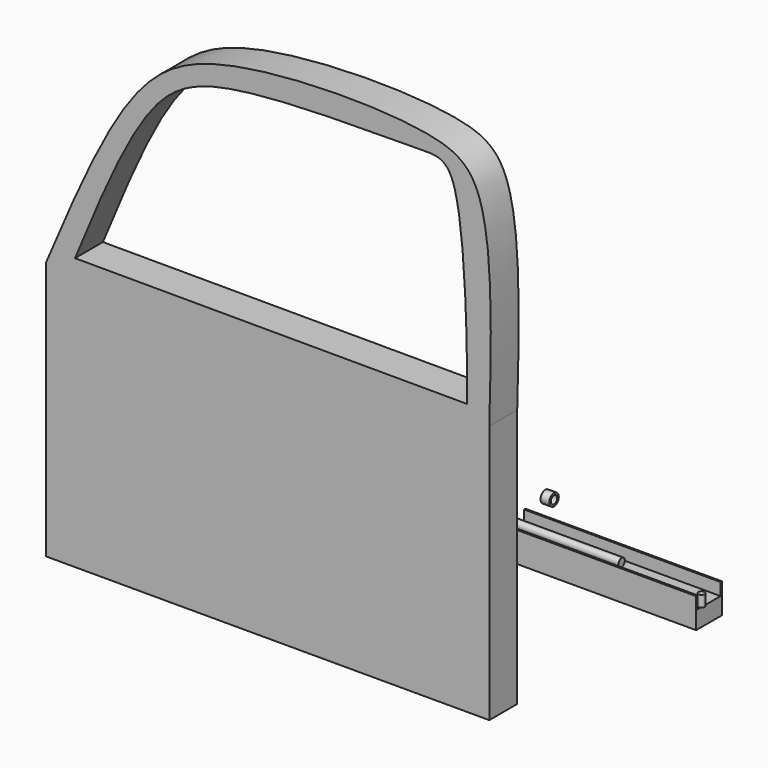
from build123d import *

# Parameters (mm, degrees)
F0_W      = 78.1136769801
F0_H      = 22.0055021346
F1_DEPTH  = 8
F2_DEPTH  = 3.5
F3_W      = 78.1136769801
F3_H      = 11.0027510673
F4_DEPTH  = 1
F6_DEPTH  = 12.5
F7_R      = 0.6740837688
F7_R_2    = 0.6794872763
F8_DEPTH  = 2
F9_R      = 1.1503813394
F9_R_2    = 1.1532026448
F10_DEPTH = 1
F15_R     = 0.9100184441
F16_DEPTH = 25
F18_DEPTH = 45
F19_W     = 0.7096510381
F19_H     = 2.5684013963
F15_R_2   = 1.3595382542
F21_DEPTH = 2


with BuildPart() as f1:
    # F0 (on Front) → F1 (new body)
    with BuildSketch(Plane.XZ):
        with BuildLine():
            Line((-72.9369357123, -81.3669546917), (28.6214776443, -81.3669546917))
            Line((28.6214776443, -81.3669546917), (28.6214776443, -22.0463353619))
            add(Edge.make_bspline(
                [(-72.9369357123, -22.0463353619), (-66.3079296953, -6.3903379982), (-54.8236810491, 20.7324864598), (-33.1368908634, 33.9886563081), (14.1885215953, 34.4693387216), (29.9138992328, 26.3054952003), (29.1285218253, -3.0768949366), (28.6214776443, -22.0463353619)],
                knots=[0, 0, 0, 0, 0.2327586614, 0.4032366747, 0.6349341911, 0.7643114096, 1, 1, 1, 1], degree=3))
            Line((-72.9369357123, -22.0463353619), (-72.9369357123, -81.3669546917))
        make_face()
        with Locations((-17.9867846891, -62.162226066)):
            Rectangle(F0_W, F0_H, mode=Mode.SUBTRACT)
        with BuildLine():
            Line((23.5529407965, -19.2304815576), (-66.3079296953, -19.0427604541))
            add(Edge.make_bspline(
                [(-66.3079296953, -19.0427604541), (-60.6025988038, -5.2091205775), (-50.8417035049, 18.4579923395), (-32.9418385651, 29.0509048337), (11.2998233245, 28.2534036027), (23.8422582571, 29.4620440208), (23.5609324216, -16.9963213799), (23.5529407965, -19.2304815576)],
                knots=[0, 0, 0, 0, 0.2292277789, 0.3921715308, 0.6301185848, 0.7440435368, 0.9842506716, 0.9842506716, 0.9842506716, 0.9842506716], degree=3))
        make_face(mode=Mode.SUBTRACT)
        with Locations((-17.9867846891, -62.162226066)):
            Rectangle(F0_W, F0_H)
    extrude(amount=F1_DEPTH)

    # F0 (on Front) → F2 (cut, symmetric)
    with BuildSketch(Plane.XZ):
        with Locations((-17.9867846891, -62.162226066)):
            Rectangle(F0_W, F0_H)
    extrude(amount=F2_DEPTH, both=True, mode=Mode.SUBTRACT)


with BuildPart() as f4:
    # F3 (on face) → F4 (new body)
    with BuildSketch(Plane(origin=(0, 0, 0), x_dir=(-1, 0, 0), z_dir=(0, 1, 0))):
        with Locations((17.9867846891, -67.6636015996)):
            Rectangle(F3_W, F3_H)
    extrude(amount=F4_DEPTH)


with BuildPart() as f6:
    # F5 (on Right) → F6 (new body, symmetric)
    with BuildSketch(Plane.YZ):
        Polygon((-1.0896978201, -60.7723593712), (-1.0896978201, -72.45323807), (-0.2179905568, -72.45323807), (-0.2179905568, -61.9055777788), (1.0241923155, -61.9055777788), (1.0241923155, -72.45323807), (2.0484484266, -72.45323807), (2.0484484266, -60.7723593712), align=None)
    extrude(amount=F6_DEPTH, both=True)

    # F7 (on face) → F8 (join)
    with BuildSketch(Plane(origin=(0, 2.0484484266, 0), x_dir=(-1, 0, 0), z_dir=(0, 1, 0))):
        with Locations((-10.6959426776, -67.096978426)):
            Circle(F7_R)
        with Locations((10.5811031535, -67.096978426)):
            Circle(F7_R_2)
    extrude(amount=F8_DEPTH)

    # F9 (on face) → F10 (join)
    with BuildSketch(Plane(origin=(0, 4.0484484266, 0), x_dir=(-1, 0, 0), z_dir=(0, 1, 0))):
        with Locations((-10.6959426776, -67.096978426)):
            Circle(F9_R)
        with Locations((10.6070199981, -67.0710653067)):
            Circle(F9_R_2)
    extrude(amount=F10_DEPTH)


with BuildPart() as f12:
    # F11 (on Right) → F12 (revolve)
    with BuildSketch(Plane.YZ):
        with BuildLine():
            Line((2.1344509079, -62.3869039118), (2.0657987334, -62.3869039118))
            Line((2.0657987334, -62.3869039118), (2.0657987334, -67.175835371))
            Line((2.0657987334, -67.175835371), (3.6893903743, -67.175835371))
            Line((3.6893903743, -67.175835371), (3.6893903743, -63.812112902))
            ThreePointArc((3.6893903743, -63.812112902), (3.0686592581, -62.9285025663), (2.1344509079, -62.3869039118))
        make_face()
    revolve(axis=Axis((0, 4.3976157904, -67.175835371), (0, 1, 0)))

    # F13 (on Right) → F14 (revolve)
    with BuildSketch(Plane.YZ):
        with BuildLine():
            Line((3.290206524, -67.100353539), (5.9968891046, -67.100353539))
            ThreePointArc((5.9968891046, -67.100353539), (4.6435478143, -65.7470122487), (3.290206524, -67.100353539))
        make_face()
    revolve(axis=Axis((0, 4.8515796661, -67.100353539), (0, 1, 0)))


with BuildPart() as f16:
    # F15 (on Right) → F16 (new body, symmetric)
    with BuildSketch(Plane.YZ):
        with Locations((34.4581520185, -67.963078618)):
            Circle(F15_R)
    extrude(amount=F16_DEPTH, both=True)


with BuildPart() as f18:
    # F17 (on Right) → F18 (new body)
    with BuildSketch(Plane.YZ):
        Polygon((31.1965886503, -66.7925700545), (30.7825282216, -66.7925700545), (30.7825282216, -73.6572667956), (38.17024827, -73.6572667956), (38.17024827, -66.7925700545), (37.7779789269, -66.7925700545), (37.7779789269, -69.6256235242), (31.1965886503, -69.6256235242), align=None)
    extrude(amount=F18_DEPTH)


with BuildPart() as f20:
    # F19 (on face) → F20 (revolve)
    with BuildSketch(Plane.YZ.offset(45)):
        with Locations((32.674622722, -68.0767707527)):
            Rectangle(F19_W, F19_H)
    revolve(axis=Axis((45, 32.3197972029, -68.3149024844), (0, 0, -1)))


with BuildPart() as f21:
    # F15 (on Right) → F21 (new body)
    with BuildSketch(Plane.YZ):
        with Locations((43.8293851912, -66.6150972247)):
            Circle(F15_R_2)
        with Locations((43.8293851912, -66.6150972247)):
            Circle(F15_R, mode=Mode.SUBTRACT)
    extrude(amount=F21_DEPTH)


solid = Compound([f1.part, f4.part, f6.part, f12.part, f16.part, f18.part, f20.part, f21.part])
